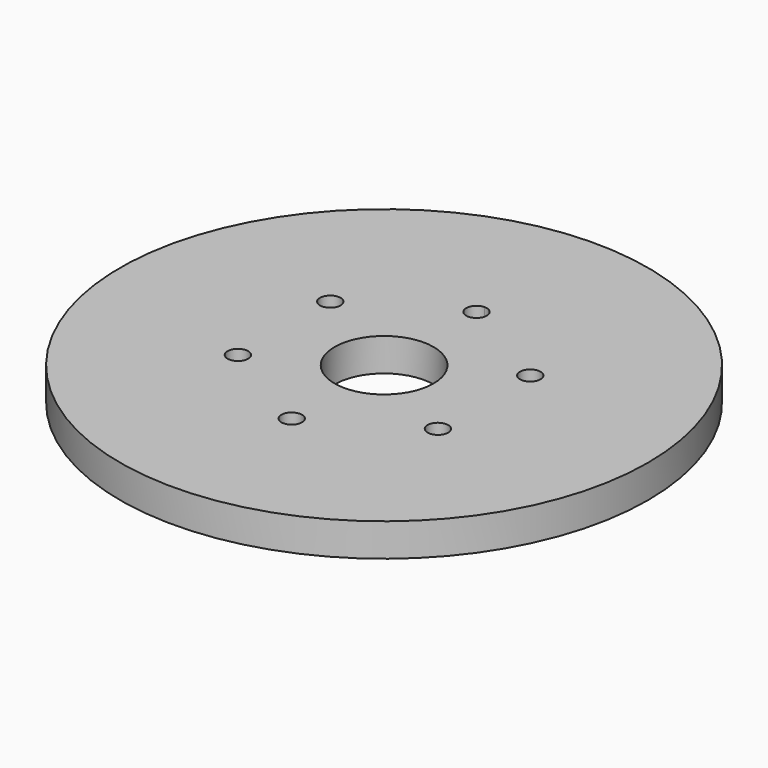
from build123d import *

# Parameters (mm, degrees)
F0_R     = 203.2
F0_R_2   = 38.1
F1_DEPTH = 25.4
F2_R     = 7.9375
F3_DEPTH = 19.05


with BuildPart() as f1:
    # F0 (on Top) → F1 (new body)
    with BuildSketch(Plane.XY):
        Circle(F0_R)
        Circle(F0_R_2, mode=Mode.SUBTRACT)
    extrude(amount=F1_DEPTH)

    # F2 (on face) → F3 (cut)
    with BuildSketch(Plane.XY.offset(25.4)):
        with BuildLine():
            ThreePointArc((0, 80.9625), (5.61266, 83.28734), (7.9375, 88.9))
            ThreePointArc((7.9375, 88.9), (5.61266, 94.51266), (0, 96.8375))
            Line((0, 96.8375), (0, 88.9))
            Line((0, 88.9), (0, 80.9625))
        make_face()
        with BuildLine():
            Line((0, 88.9), (0, 96.8375))
            ThreePointArc((0, 96.8375), (-7.9375, 88.9), (0, 80.9625))
            Line((0, 80.9625), (0, 88.9))
        make_face()
        with Locations((-76.989658, 44.45)):
            Circle(F2_R)
        with Locations((-76.989658, -44.45)):
            Circle(F2_R)
        with Locations((0, -88.9)):
            Circle(F2_R)
        with Locations((76.989658, -44.45)):
            Circle(F2_R)
        with Locations((76.989658, 44.45)):
            Circle(F2_R)
    extrude(amount=-F3_DEPTH, mode=Mode.SUBTRACT)


solid = f1.part
